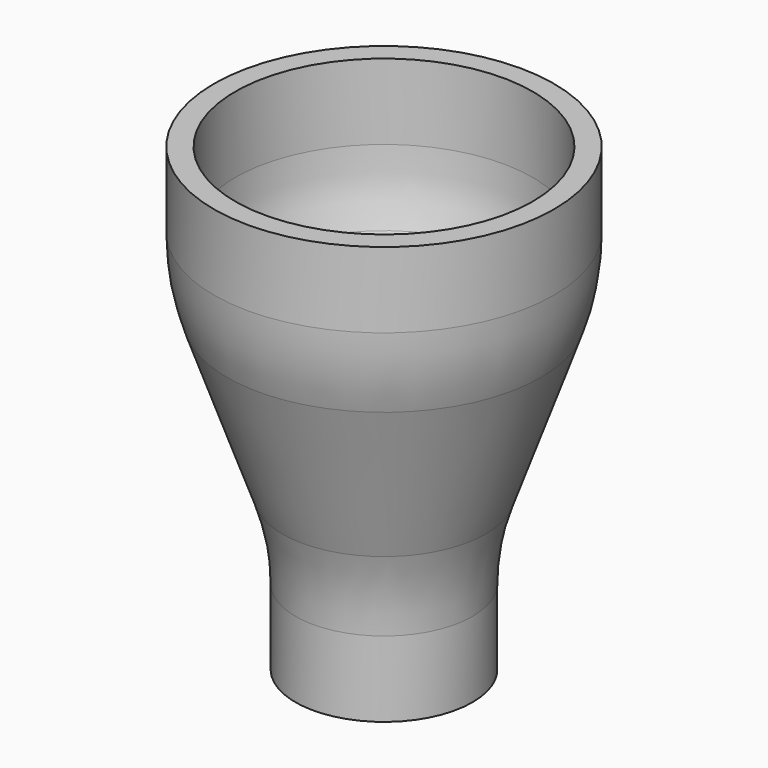
from build123d import *

# Parameters (mm, degrees)
F5_T     = -3
F4_R     = 10.5
F6_DEPTH = 65.001


with BuildPart() as f2:
    # F1 (on Front) → F2 (revolve)
    with BuildSketch(Plane.XZ):
        with BuildLine():
            Line((0, 65), (0, 0))
            Line((0, 0), (12.5, 0))
            Line((12.5, 0), (12.5, 10.6695285708))
            ThreePointArc((12.5, 10.6695285708), (12.9687621154, 16.169510351), (14.3615261282, 21.51083471))
            Line((14.3615261282, 21.51083471), (22.1384738718, 43.48916529))
            ThreePointArc((22.1384738718, 43.48916529), (23.5312378846, 48.830489649), (24, 54.3304714292))
            Line((24, 54.3304714292), (24, 65))
            Line((24, 65), (0, 65))
        make_face()
    revolve(axis=Axis((0, 0, 32.5), (0, 0, 1)))

    # F5
    f5_openings = [f2.faces().sort_by_distance(p)[0] for p in [
        (0, 0, 65),
    ]]
    offset(amount=F5_T, openings=f5_openings)

    # F4 (on face) → F6 (cut, through all)
    with BuildSketch(Plane(origin=(0, 0, 0), x_dir=(1, 0, 0), z_dir=(0, 0, -1))):
        Circle(F4_R)
    extrude(amount=-F6_DEPTH, mode=Mode.SUBTRACT)


solid = f2.part
